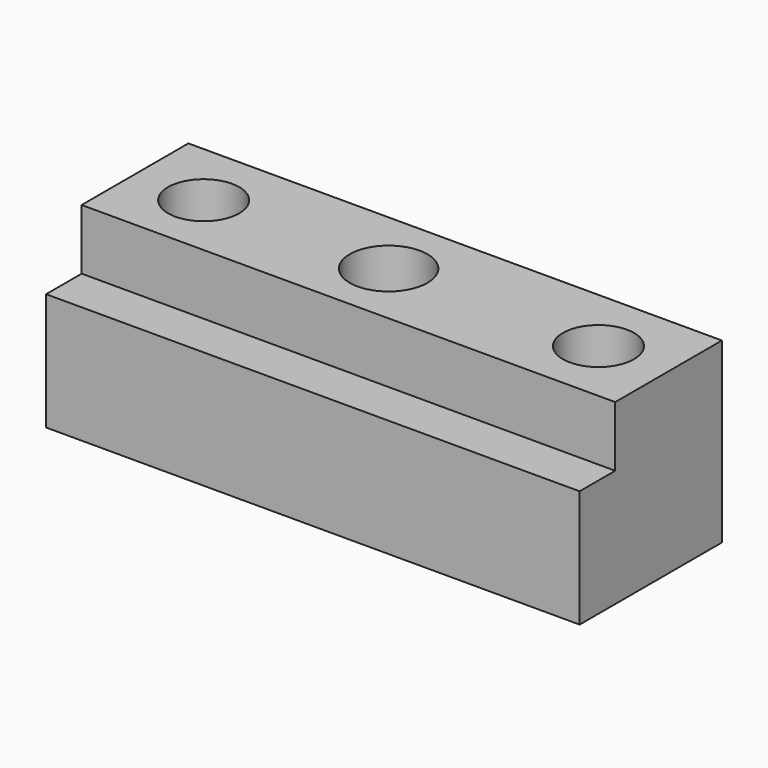
from build123d import *

# Parameters (mm, degrees)
F0_W     = 25.4
F0_H     = 25.4
F1_DEPTH = 76.2
F2_W     = 6.35
F2_H     = 8.636
F3_DEPTH = 76.2
F4_R     = 5.08
F5_DEPTH = 19.05
F6_R     = 5.5499
F7_DEPTH = 73.406


with BuildPart() as f1:
    # F0 (on Right) → F1 (new body)
    with BuildSketch(Plane.YZ):
        Rectangle(F0_W, F0_H)
    extrude(amount=-F1_DEPTH)

    # F2 (on Right) → F3 (cut)
    with BuildSketch(Plane.YZ):
        with Locations((-9.525, 8.382)):
            Rectangle(F2_W, F2_H)
    extrude(amount=-F3_DEPTH, mode=Mode.SUBTRACT)

    # F4 (on face) → F5 (cut)
    with BuildSketch(Plane.XY.offset(12.7)):
        with Locations((-66.294, 3.048)):
            Circle(F4_R)
        with Locations((-9.906, 3.048)):
            Circle(F4_R)
    extrude(amount=-F5_DEPTH, mode=Mode.SUBTRACT)

    # F6 (on face) → F7 (cut)
    with BuildSketch(Plane.XY.offset(12.7)):
        with Locations((-39.878, 3.048)):
            Circle(F6_R)
    extrude(amount=-F7_DEPTH, mode=Mode.SUBTRACT)


solid = f1.part
